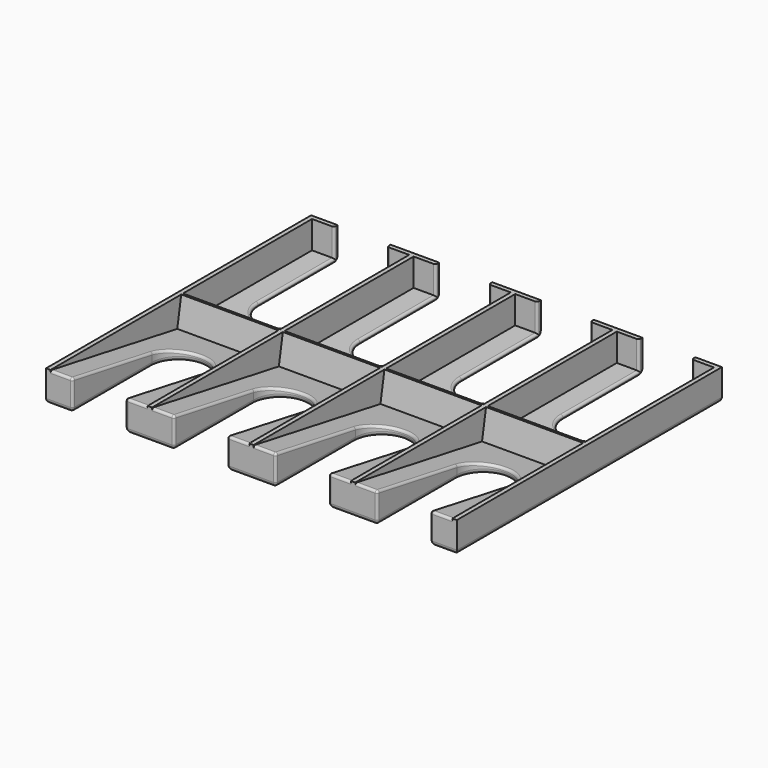
from build123d import *

# Parameters (mm, degrees)
SKETCH014_W                        = 186
SKETCH014_H                        = 150
PAD007_DEPTH                       = 14
SKETCH015_W                        = 44
SKETCH015_H                        = 73
POCKET007_DEPTH                    = 12.5
LINEARPATTERN003_COUNT             = 4
LINEARPATTERN003_PITCH             = 46
SKETCH016_W                        = 44
SKETCH016_H                        = 73
POCKET008_DEPTH                    = 13
LINEARPATTERN004_COUNT             = 4
LINEARPATTERN004_PITCH             = 46
POCKET009_DEPTH                    = 492.715946
POCKET009_LINEARPATTERN005_2_DEPTH = 492.715946
POCKET009_LINEARPATTERN005_3_DEPTH = 492.715946
POCKET009_LINEARPATTERN005_4_DEPTH = 492.715946
FILLET009_R                        = 1
FILLET010_R                        = 1
FILLET011_R                        = 2


with BuildPart() as part:
    # Sketch014 → Pad007 (new body)
    with BuildSketch(Plane.XY):
        Rectangle(SKETCH014_W, SKETCH014_H)
    extrude(amount=PAD007_DEPTH)

    # Sketch015 (on DatumPlane) → Pocket007 (cut)
    with BuildSketch(Plane(origin=(-69, 0, 14), x_dir=(1, 0, 0), z_dir=(0, 0, 1))):
        with Locations((0, 36.5)):
            Rectangle(SKETCH015_W, SKETCH015_H)
    pocket007 = extrude(amount=-POCKET007_DEPTH, mode=Mode.SUBTRACT)

    # LinearPattern003: Pocket007 ×4
    with Locations(*[(i * LINEARPATTERN003_PITCH, 0, 0) for i in range(1, LINEARPATTERN003_COUNT)]):
        add(pocket007, mode=Mode.SUBTRACT)

    # Sketch016 (on DatumPlane) → Pocket008 (cut)
    with BuildSketch(Plane(origin=(-69, -1, 14), x_dir=(1, 0, 0), z_dir=(0, 0.173648, 0.984808))):
        with Locations((0, -36.5)):
            Rectangle(SKETCH016_W, SKETCH016_H)
    pocket008 = extrude(amount=-POCKET008_DEPTH, mode=Mode.SUBTRACT)

    # LinearPattern004: Pocket008 ×4
    with Locations(*[(i * LINEARPATTERN004_PITCH, 0, 0) for i in range(1, LINEARPATTERN004_COUNT)]):
        add(pocket008, mode=Mode.SUBTRACT)

    # Sketch017 (on DatumPlane) → Pocket009 (cut, through all)
    with BuildSketch(Plane(origin=(-69, 30, 14), x_dir=(1, 0, 0), z_dir=(0, 0, 1))):
        with BuildLine():
            Line((12, 0), (12, 50))
            Line((12, 50), (-12, 50))
            Line((-12, 50), (-12, 0))
            ThreePointArc((-12, 0), (0, -12), (12, 0))
        make_face()
    pocket009 = extrude(amount=-POCKET009_DEPTH, mode=Mode.SUBTRACT)

    # Sketch017 LinearPattern005 2 → Pocket009 LinearPattern005 2 (cut, through all)
    with BuildSketch(Plane(origin=(-23, 30, 14), x_dir=(1, 0, 0), z_dir=(0, 0, 1))):
        with BuildLine():
            Line((12, 0), (12, 50))
            Line((12, 50), (-12, 50))
            Line((-12, 50), (-12, 0))
            ThreePointArc((-12, 0), (0, -12), (12, 0))
        make_face()
    pocket009_linearpattern005_2 = extrude(amount=-POCKET009_LINEARPATTERN005_2_DEPTH, mode=Mode.SUBTRACT)

    # Sketch017 LinearPattern005 3 → Pocket009 LinearPattern005 3 (cut, through all)
    with BuildSketch(Plane(origin=(23, 30, 14), x_dir=(1, 0, 0), z_dir=(0, 0, 1))):
        with BuildLine():
            Line((12, 0), (12, 50))
            Line((12, 50), (-12, 50))
            Line((-12, 50), (-12, 0))
            ThreePointArc((-12, 0), (0, -12), (12, 0))
        make_face()
    pocket009_linearpattern005_3 = extrude(amount=-POCKET009_LINEARPATTERN005_3_DEPTH, mode=Mode.SUBTRACT)

    # Sketch017 LinearPattern005 4 → Pocket009 LinearPattern005 4 (cut, through all)
    with BuildSketch(Plane(origin=(69, 30, 14), x_dir=(1, 0, 0), z_dir=(0, 0, 1))):
        with BuildLine():
            Line((12, 0), (12, 50))
            Line((12, 50), (-12, 50))
            Line((-12, 50), (-12, 0))
            ThreePointArc((-12, 0), (0, -12), (12, 0))
        make_face()
    pocket009_linearpattern005_4 = extrude(amount=-POCKET009_LINEARPATTERN005_4_DEPTH, mode=Mode.SUBTRACT)

    # Mirrored004: Pocket009, Pocket009 LinearPattern005 2, Pocket009 LinearPattern005 3, Pocket009 LinearPattern005 4 across XZ
    add(pocket009.mirror(Plane.XZ), mode=Mode.SUBTRACT)
    add(pocket009_linearpattern005_2.mirror(Plane.XZ), mode=Mode.SUBTRACT)
    add(pocket009_linearpattern005_3.mirror(Plane.XZ), mode=Mode.SUBTRACT)
    add(pocket009_linearpattern005_4.mirror(Plane.XZ), mode=Mode.SUBTRACT)

    # Fillet009
    fillet009_edges = [part.edges().sort_by_distance(p)[0] for p in [
        (-81, -75, 6.923825),
        (-57, -75, 6.923825),
        (-35, -75, 6.923825),
        (-11, -75, 6.923825),
        (11, -75, 6.923825),
        (35, -75, 6.923825),
        (57, -75, 6.923825),
        (81, -75, 6.923825),
        (-86, -75, 13.847651),
        (-52, -75, 13.847651),
        (-40, -75, 13.847651),
        (-6, -75, 13.847651),
        (6, -75, 13.847651),
        (40, -75, 13.847651),
        (52, -75, 13.847651),
        (86, -75, 13.847651),
        (-81, -52.5, 9.880294),
        (-69, -18, 3.797013),
        (-57, -52.5, 9.880294),
        (-35, -52.5, 9.880294),
        (-23, -18, 3.797013),
        (-11, -52.5, 9.880294),
        (11, -52.5, 9.880294),
        (23, -18, 3.797013),
        (35, -52.5, 9.880294),
        (57, -52.5, 9.880294),
        (69, -18, 3.797013),
        (81, -52.5, 9.880294),
    ]]
    fillet(fillet009_edges, radius=FILLET009_R)

    # Fillet010
    fillet010_edges = [part.edges().sort_by_distance(p)[0] for p in [
        (81, 51.5, 1.5),
        (69, 18, 1.5),
        (81, 73, 7.75),
        (57, 51.5, 1.5),
        (57, 73, 7.75),
        (35, 73, 7.75),
        (35, 51.5, 1.5),
        (23, 18, 1.5),
        (11, 51.5, 1.5),
        (11, 73, 7.75),
        (-11, 73, 7.75),
        (-11, 51.5, 1.5),
        (-23, 18, 1.5),
        (-35, 51.5, 1.5),
        (-35, 73, 7.75),
        (-57, 73, 7.75),
        (-57, 51.5, 1.5),
        (-69, 18, 1.5),
        (-81, 51.5, 1.5),
        (-81, 73, 7.75),
    ]]
    fillet(fillet010_edges, radius=FILLET010_R)

    # Fillet011
    fillet011_edges = [part.edges().sort_by_distance(p)[0] for p in [
        (-93, 0, 0),
        (93, 0, 0),
        (87, 75, 0),
        (46, 75, 0),
        (0, 75, 0),
        (-46, 75, 0),
        (-87, 75, 0),
        (87.5, -75, 0),
        (46, -75, 0),
        (0, -75, 0),
        (-46, -75, 0),
        (-87.5, -75, 0),
    ]]
    fillet(fillet011_edges, radius=FILLET011_R)


with BuildPart() as part_1:
    # Body008 placement: moved
    add(part.part.moved(Location((0, 71, 0))))


solid = part_1.part
